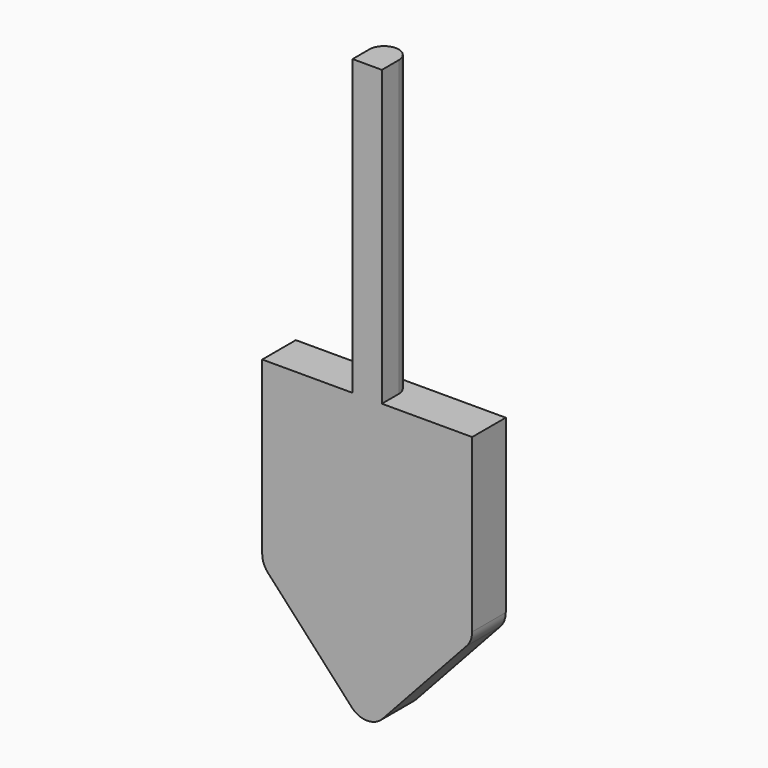
from build123d import *

# Parameters (mm, degrees)
F1_DEPTH = 12.7
F3_DEPTH = 88.9


with BuildPart() as f1:
    # F0 (on Front) → F1 (new body)
    with BuildSketch(Plane.XZ):
        with BuildLine():
            Line((31.75, 37.1686270936), (-31.75, 37.1686270936))
            Line((-31.75, 37.1686270936), (-31.75, -14.7149503491))
            ThreePointArc((-31.75, -14.7149503491), (-31.316464033, -17.0210191569), (-30.0750540643, -19.0122017377))
            Line((-30.0750540643, -19.0122017377), (-4.6750540643, -46.6453007808))
            ThreePointArc((-4.6750540643, -46.6453007808), (0, -48.6980493923), (4.6750540643, -46.6453007808))
            Line((4.6750540643, -46.6453007808), (30.0750540643, -19.0122017377))
            ThreePointArc((30.0750540643, -19.0122017377), (31.316464033, -17.0210191569), (31.75, -14.7149503491))
            Line((31.75, -14.7149503491), (31.75, 37.1686270936))
        make_face()
    extrude(amount=F1_DEPTH)

    # F2 (on face) → F3 (join)
    with BuildSketch(Plane.XY.offset(37.1686270936)):
        with BuildLine():
            Line((-4.4317082143, -6.6040777501), (-4.4317082143, -12.7))
            Line((-4.4317082143, -12.7), (4.4366029292, -12.7))
            Line((4.4366029292, -12.7), (4.4366029292, -6.4954223107))
            ThreePointArc((4.4366029292, -6.4954223107), (0.0543828161, -10.7886524654), (-4.4317082143, -6.6040777501))
        make_face()
        with BuildLine():
            ThreePointArc((4.4366029292, -6.2045776893), (-0.1997650225, -1.9155116264), (-4.4317082143, -6.6040777501))
            ThreePointArc((-4.4317082143, -6.6040777501), (0.0543828161, -10.7886524654), (4.4366029292, -6.4954223107))
            Line((4.4366029292, -6.4954223107), (4.4366029292, -6.2045776893))
        make_face()
    extrude(amount=F3_DEPTH)


solid = f1.part
